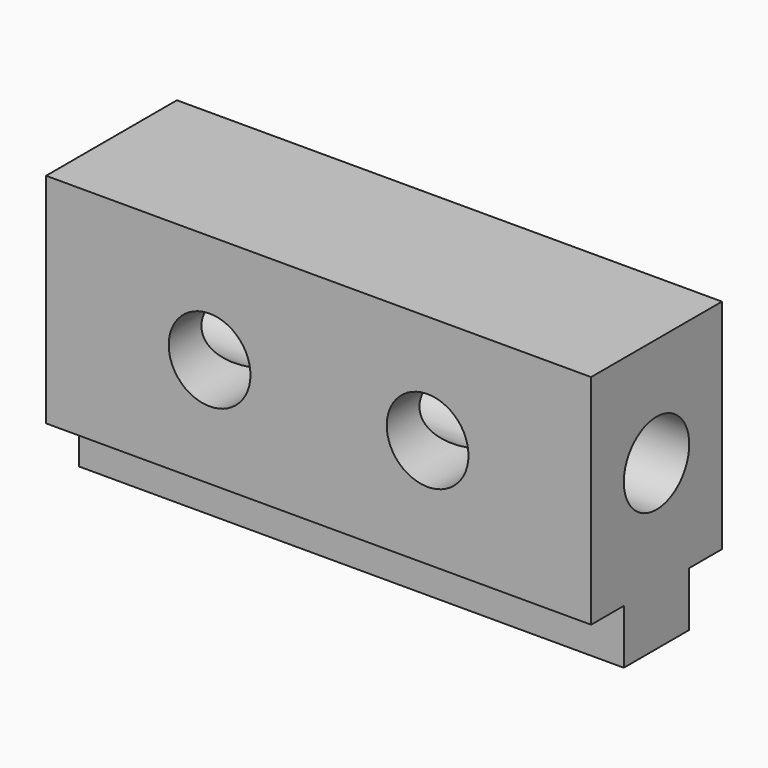
from build123d import *

# Parameters (mm, degrees)
F0_R     = 9.525
F1_DEPTH = 127
F2_R     = 9.525
F3_DEPTH = 38.354


with BuildPart() as f1:
    # F0 (on Right) → F1 (new body)
    with BuildSketch(Plane.YZ):
        Polygon((20.09412, 34.414466), (-18.00588, 34.414466), (-18.00588, -16.385534), (-8.48088, -16.385534), (-8.48088, -29.085534), (10.56912, -29.085534), (10.56912, -16.385534), (20.09412, -16.385534), align=None)
        with Locations((1.04412, 9.014466)):
            Circle(F0_R, mode=Mode.SUBTRACT)
    extrude(amount=F1_DEPTH)

    # F2 (on face) → F3 (cut)
    with BuildSketch(Plane.XZ.offset(18.00588)):
        with Locations((38.1, 9.014466)):
            Circle(F2_R)
        with Locations((88.9, 9.014466)):
            Circle(F2_R)
    extrude(amount=-F3_DEPTH, mode=Mode.SUBTRACT)


solid = f1.part
